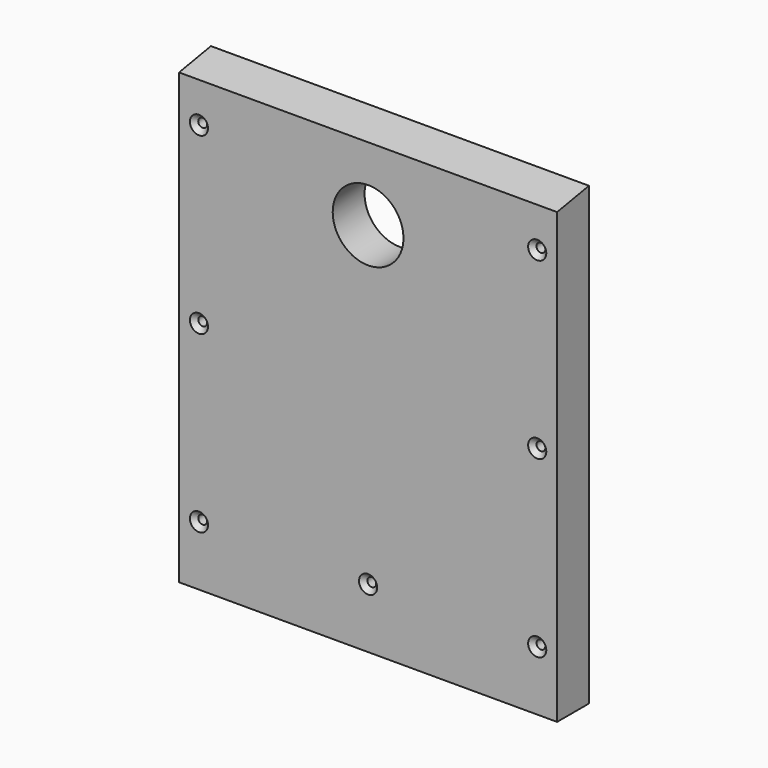
from build123d import *

# Parameters (mm, degrees)
F0_W           = 171
F0_H           = 206.193
F1_DEPTH       = 18
F2_D           = 32
F4_DEPTH       = 171.001
F6_D           = 4
F6_CSINK_D     = 8.2
F6_CSINK_ANGLE = 90
F7_D           = 4
F7_CSINK_D     = 8.2
F7_CSINK_ANGLE = 90
F8_D           = 4
F8_CSINK_D     = 8.2
F8_CSINK_ANGLE = 90
F9_D           = 4
F9_CSINK_D     = 8.2
F9_CSINK_ANGLE = 90


with BuildPart() as f1:
    # F0 (on Front) → F1 (new body)
    with BuildSketch(Plane.XZ):
        Rectangle(F0_W, F0_H)
    extrude(amount=F1_DEPTH)

    # F2 (through all)
    with Locations(Plane(origin=(0, 0, 0), x_dir=(1, 0, 0), z_dir=(0, 1, 0))):
        with Locations((0, -66.9035)):
            Hole(F2_D / 2)

    # F3 (on face) → F4 (cut, through all)
    with BuildSketch(Plane(origin=(-85.5, 0, 0), x_dir=(0, -1, 0), z_dir=(-1, 0, 0))):
        Polygon((18, 103.0965), (0, 103.0965), (18, 99.9226143472), align=None)
    extrude(amount=-F4_DEPTH, mode=Mode.SUBTRACT)

    # F6 (through all)
    with Locations(Plane.XZ.offset(18)):
        with Locations((0, -76.0965)):
            CounterSinkHole(F6_D / 2, F6_CSINK_D / 2, counter_sink_angle=F6_CSINK_ANGLE)

    # F7 (through all)
    with Locations(Plane.XZ.offset(18)):
        with Locations((-76.5, -76.0965), (76.5, -76.0965)):
            CounterSinkHole(F7_D / 2, F7_CSINK_D / 2, counter_sink_angle=F7_CSINK_ANGLE)

    # F8 (through all)
    with Locations(Plane.XZ.offset(18)):
        with Locations((-76.5, 81.9035), (76.5, 81.9035)):
            CounterSinkHole(F8_D / 2, F8_CSINK_D / 2, counter_sink_angle=F8_CSINK_ANGLE)

    # F9 (through all)
    with Locations(Plane.XZ.offset(18)):
        with Locations((-76.5, 2.9035), (76.5, 2.9035)):
            CounterSinkHole(F9_D / 2, F9_CSINK_D / 2, counter_sink_angle=F9_CSINK_ANGLE)


solid = f1.part
